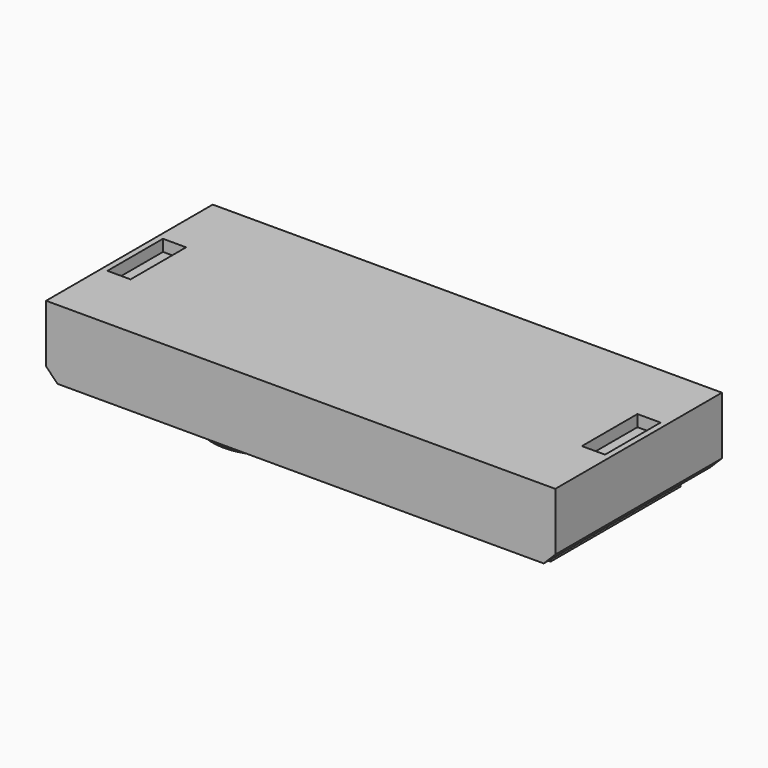
from build123d import *

# Parameters (mm, degrees)
SKETCH003_R      = 2.5
EXTRUDE003_DEPTH = 1
CHAMFER_SIZE     = 0.1
SKETCH006_W      = 20
SKETCH006_H      = 7
EXTRUDE018_DEPTH = 0.5
SKETCH001_W      = 1
SKETCH001_H      = 3
EXTRUDE001_DEPTH = 1
SKETCH002_W      = 1
SKETCH002_H      = 3
EXTRUDE002_DEPTH = 1
SKETCH_W         = 22
SKETCH_H         = 9
EXTRUDE_DEPTH    = 3
CHAMFER001_SIZE  = 0.5


with BuildPart() as chamfer001:
    # Sketch003 → Extrude003 (new body)
    with BuildSketch(Plane(origin=(-0.5, 0, 0), x_dir=(1, 0, 0), z_dir=(0, 0, 1))):
        with Locations((6.5, 5.5)):
            Circle(SKETCH003_R)
    extrude(amount=EXTRUDE003_DEPTH)

    # Chamfer
    chamfer_edges = [chamfer001.edges().sort_by_distance(p)[0] for p in [
        (3.5, 5.5, 0),
    ]]
    chamfer(chamfer_edges, length=CHAMFER_SIZE)


with BuildPart() as chamfer001_1:
    # Chamfer placement: moved
    add(chamfer001.part.moved(Location((-2, 0, 0))))


with BuildPart() as fusion020:
    # Sketch006 → Extrude018 (new body)
    with BuildSketch(Plane.XY.offset(1)):
        with Locations((9, 5.5)):
            Rectangle(SKETCH006_W, SKETCH006_H)
    extrude(amount=EXTRUDE018_DEPTH)

    # Fusion020: union Chamfer001
    add(chamfer001_1.part)


with BuildPart() as extrude001:
    # Sketch001 → Extrude001 (new body)
    with BuildSketch(Plane(origin=(0, 1, 4), x_dir=(1, 0, 0), z_dir=(0, 0, 1))):
        with Locations((0.75, 4.5)):
            Rectangle(SKETCH001_W, SKETCH001_H)
    extrude(amount=EXTRUDE001_DEPTH)


with BuildPart() as extrude001_1:
    # Extrude001 placement: moved
    add(extrude001.part.moved(Location((-2, 0, 0))))


with BuildPart() as fusion:
    # Sketch002 → Extrude002 (new body)
    with BuildSketch(Plane(origin=(18.5, 1, 4), x_dir=(1, 0, 0), z_dir=(0, 0, 1))):
        with Locations((0.75, 4.5)):
            Rectangle(SKETCH002_W, SKETCH002_H)
    extrude(amount=EXTRUDE002_DEPTH)

    # Fusion: union Extrude001
    add(extrude001_1.part)


with BuildPart() as body:
    # Sketch → Extrude (new body)
    with BuildSketch(Plane.XY.offset(1.5)):
        with Locations((9, 5.5)):
            Rectangle(SKETCH_W, SKETCH_H)
    extrude(amount=EXTRUDE_DEPTH)

    # Chamfer001
    chamfer001_edges = [body.edges().sort_by_distance(p)[0] for p in [
        (20, 5.5, 1.5),
        (-2, 5.5, 1.5),
    ]]
    chamfer(chamfer001_edges, length=CHAMFER001_SIZE)

    # Cut: cut Fusion
    add(fusion.part, mode=Mode.SUBTRACT)

    # Fusion021: union Fusion020
    add(fusion020.part)


solid = body.part
